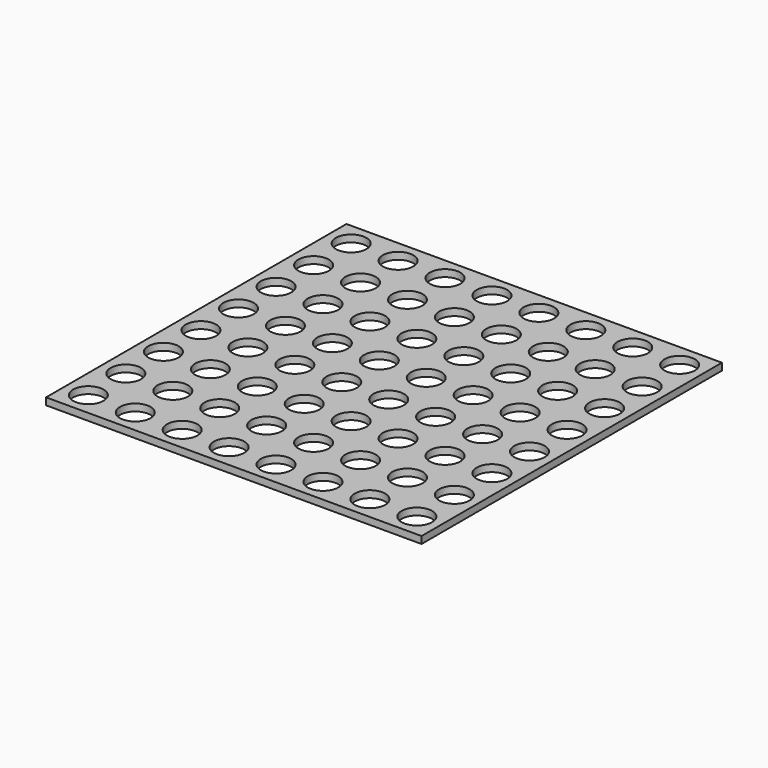
from build123d import *

# Parameters (mm, degrees)
F0_W     = 80
F0_H     = 80
F0_R     = 3.25
F1_DEPTH = 1.5


with BuildPart() as f1:
    # F0 (on Top) → F1 (new body)
    with BuildSketch(Plane.XY):
        Rectangle(F0_W, F0_H)
        with Locations((-35, -35)):
            Circle(F0_R, mode=Mode.SUBTRACT)
        with Locations((-25, -35)):
            Circle(F0_R, mode=Mode.SUBTRACT)
        with Locations((-35, -25)):
            Circle(F0_R, mode=Mode.SUBTRACT)
        with Locations((-25, -25)):
            Circle(F0_R, mode=Mode.SUBTRACT)
        with Locations((-15, -35)):
            Circle(F0_R, mode=Mode.SUBTRACT)
        with Locations((-5, -35)):
            Circle(F0_R, mode=Mode.SUBTRACT)
        with Locations((-15, -25)):
            Circle(F0_R, mode=Mode.SUBTRACT)
        with Locations((-5, -25)):
            Circle(F0_R, mode=Mode.SUBTRACT)
        with Locations((-35, -15)):
            Circle(F0_R, mode=Mode.SUBTRACT)
        with Locations((-25, -15)):
            Circle(F0_R, mode=Mode.SUBTRACT)
        with Locations((-35, -5)):
            Circle(F0_R, mode=Mode.SUBTRACT)
        with Locations((-25, -5)):
            Circle(F0_R, mode=Mode.SUBTRACT)
        with Locations((-15, -15)):
            Circle(F0_R, mode=Mode.SUBTRACT)
        with Locations((-5, -15)):
            Circle(F0_R, mode=Mode.SUBTRACT)
        with Locations((-15, -5)):
            Circle(F0_R, mode=Mode.SUBTRACT)
        with Locations((-5, -5)):
            Circle(F0_R, mode=Mode.SUBTRACT)
        with Locations((5, -35)):
            Circle(F0_R, mode=Mode.SUBTRACT)
        with Locations((15, -35)):
            Circle(F0_R, mode=Mode.SUBTRACT)
        with Locations((5, -25)):
            Circle(F0_R, mode=Mode.SUBTRACT)
        with Locations((15, -25)):
            Circle(F0_R, mode=Mode.SUBTRACT)
        with Locations((25, -35)):
            Circle(F0_R, mode=Mode.SUBTRACT)
        with Locations((35, -35)):
            Circle(F0_R, mode=Mode.SUBTRACT)
        with Locations((25, -25)):
            Circle(F0_R, mode=Mode.SUBTRACT)
        with Locations((35, -25)):
            Circle(F0_R, mode=Mode.SUBTRACT)
        with Locations((5, -15)):
            Circle(F0_R, mode=Mode.SUBTRACT)
        with Locations((15, -15)):
            Circle(F0_R, mode=Mode.SUBTRACT)
        with Locations((5, -5)):
            Circle(F0_R, mode=Mode.SUBTRACT)
        with Locations((15, -5)):
            Circle(F0_R, mode=Mode.SUBTRACT)
        with Locations((25, -15)):
            Circle(F0_R, mode=Mode.SUBTRACT)
        with Locations((35, -15)):
            Circle(F0_R, mode=Mode.SUBTRACT)
        with Locations((25, -5)):
            Circle(F0_R, mode=Mode.SUBTRACT)
        with Locations((35, -5)):
            Circle(F0_R, mode=Mode.SUBTRACT)
        with Locations((-35, 5)):
            Circle(F0_R, mode=Mode.SUBTRACT)
        with Locations((-25, 5)):
            Circle(F0_R, mode=Mode.SUBTRACT)
        with Locations((-35, 15)):
            Circle(F0_R, mode=Mode.SUBTRACT)
        with Locations((-25, 15)):
            Circle(F0_R, mode=Mode.SUBTRACT)
        with Locations((-15, 5)):
            Circle(F0_R, mode=Mode.SUBTRACT)
        with Locations((-5, 5)):
            Circle(F0_R, mode=Mode.SUBTRACT)
        with Locations((-15, 15)):
            Circle(F0_R, mode=Mode.SUBTRACT)
        with Locations((-5, 15)):
            Circle(F0_R, mode=Mode.SUBTRACT)
        with Locations((-35, 25)):
            Circle(F0_R, mode=Mode.SUBTRACT)
        with Locations((-25, 25)):
            Circle(F0_R, mode=Mode.SUBTRACT)
        with Locations((-35, 35)):
            Circle(F0_R, mode=Mode.SUBTRACT)
        with Locations((-25, 35)):
            Circle(F0_R, mode=Mode.SUBTRACT)
        with Locations((-15, 25)):
            Circle(F0_R, mode=Mode.SUBTRACT)
        with Locations((-5, 25)):
            Circle(F0_R, mode=Mode.SUBTRACT)
        with Locations((-15, 35)):
            Circle(F0_R, mode=Mode.SUBTRACT)
        with Locations((-5, 35)):
            Circle(F0_R, mode=Mode.SUBTRACT)
        with Locations((5, 5)):
            Circle(F0_R, mode=Mode.SUBTRACT)
        with Locations((15, 5)):
            Circle(F0_R, mode=Mode.SUBTRACT)
        with Locations((5, 15)):
            Circle(F0_R, mode=Mode.SUBTRACT)
        with Locations((15, 15)):
            Circle(F0_R, mode=Mode.SUBTRACT)
        with Locations((25, 5)):
            Circle(F0_R, mode=Mode.SUBTRACT)
        with Locations((35, 5)):
            Circle(F0_R, mode=Mode.SUBTRACT)
        with Locations((25, 15)):
            Circle(F0_R, mode=Mode.SUBTRACT)
        with Locations((35, 15)):
            Circle(F0_R, mode=Mode.SUBTRACT)
        with Locations((5, 25)):
            Circle(F0_R, mode=Mode.SUBTRACT)
        with Locations((15, 25)):
            Circle(F0_R, mode=Mode.SUBTRACT)
        with Locations((5, 35)):
            Circle(F0_R, mode=Mode.SUBTRACT)
        with Locations((15, 35)):
            Circle(F0_R, mode=Mode.SUBTRACT)
        with Locations((25, 25)):
            Circle(F0_R, mode=Mode.SUBTRACT)
        with Locations((35, 25)):
            Circle(F0_R, mode=Mode.SUBTRACT)
        with Locations((25, 35)):
            Circle(F0_R, mode=Mode.SUBTRACT)
        with Locations((35, 35)):
            Circle(F0_R, mode=Mode.SUBTRACT)
    extrude(amount=F1_DEPTH)


solid = f1.part
